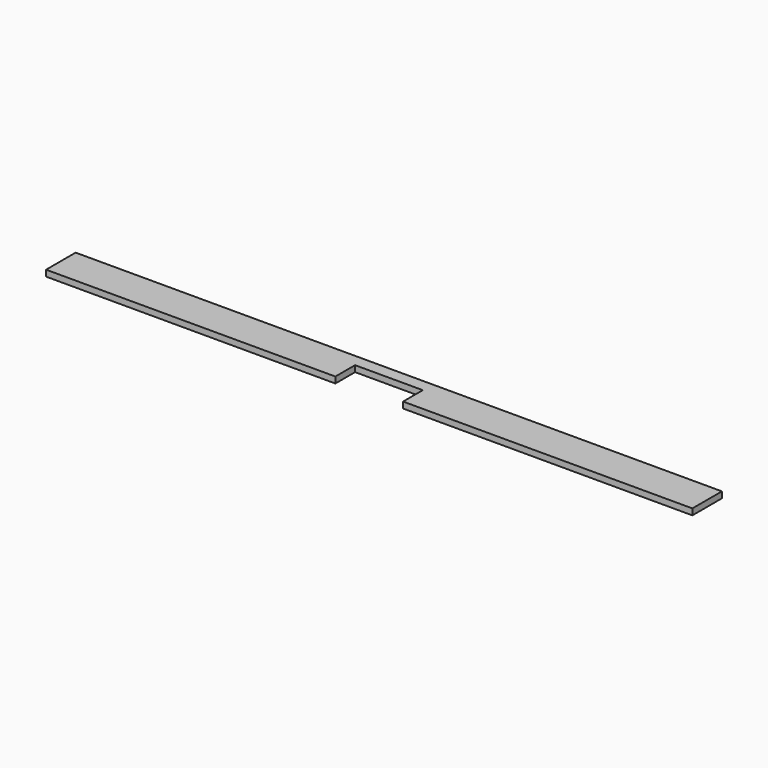
from build123d import *

# Parameters (mm, degrees)
BOX002_W     = 11
BOX002_H     = 4
BOX002_DEPTH = 1
BOX001_W     = 105
BOX001_H     = 6
BOX001_DEPTH = 1


with BuildPart() as supportsubtract:
    # Box002 → Box002 (new body)
    with BuildSketch(Plane(origin=(-5.5, 0, -0.3), x_dir=(1, 0, 0), z_dir=(0, 0, 1))):
        with Locations((5.5, 2)):
            Rectangle(BOX002_W, BOX002_H)
    extrude(amount=BOX002_DEPTH)


with BuildPart() as support001:
    # Box001 → Box001 (new body)
    with BuildSketch(Plane(origin=(-52.5, 0, -0.3), x_dir=(1, 0, 0), z_dir=(0, 0, 1))):
        with Locations((52.5, 3)):
            Rectangle(BOX001_W, BOX001_H)
    extrude(amount=BOX001_DEPTH)

    # Cut: cut SupportSubtract
    add(supportsubtract.part, mode=Mode.SUBTRACT)


solid = support001.part
